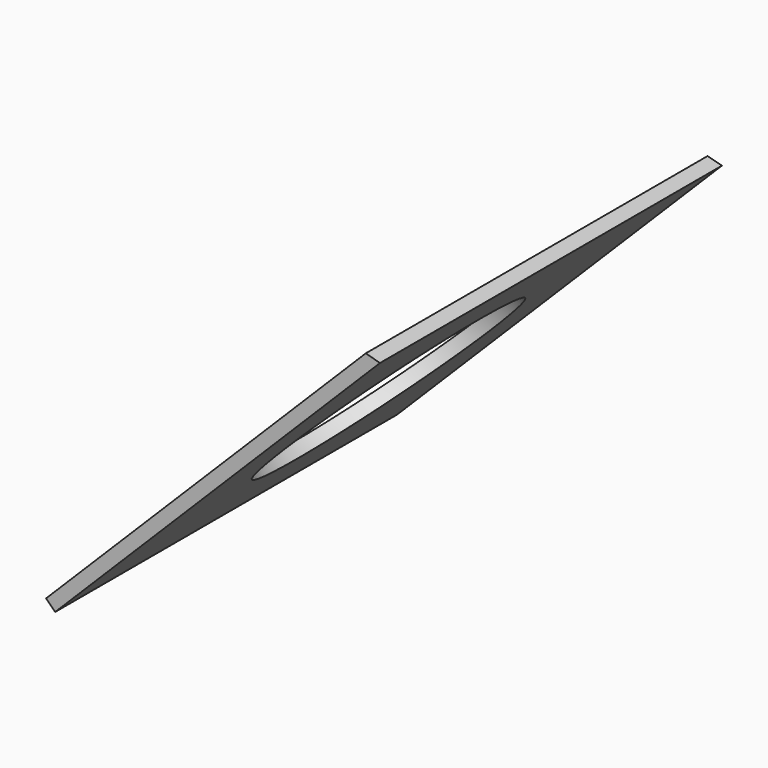
from build123d import *

# Parameters (mm, degrees)
F1_DEPTH = 400
F3_DEPTH = 25


with BuildPart() as f1:
    # F0 (on Front) → F1 (new body)
    with BuildSketch(Plane.XZ):
        Polygon((-225.0889671236, 36.5147186258), (78.9826564552, 340.5863422045), (65.5983955954, 344.1726440932), (-233.5742484978, 45), align=None)
    extrude(amount=F1_DEPTH)

    # F2 (on face) → F3 (cut)
    with BuildSketch(Plane(origin=(-130.8018428747, 0, 130.8018428747), x_dir=(0, 1, 0), z_dir=(0.7071067812, 0, -0.7071067812))):
        with BuildLine():
            ThreePointArc((-320, 81.668977129), (-200, -38.331022871), (-80, 81.668977129))
            Line((-80, 81.668977129), (-320, 81.668977129))
        make_face()
        with BuildLine():
            Line((-320, 81.668977129), (-80, 81.668977129))
            ThreePointArc((-80, 81.668977129), (-200, 201.668977129), (-320, 81.668977129))
        make_face()
    extrude(amount=-F3_DEPTH, mode=Mode.SUBTRACT)


solid = f1.part
